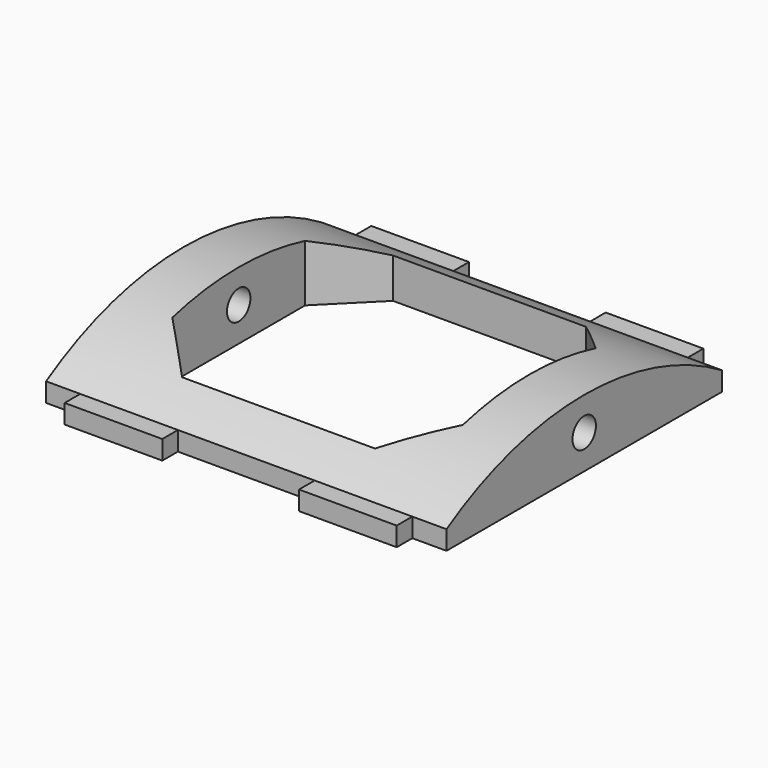
from build123d import *

# Parameters (mm, degrees)
F1_DEPTH = 1.95
F2_R     = 1.5
F3_DEPTH = 41
F4_W     = 29.75
F4_H     = 27
F5_DEPTH = 6.901
F6_SIZE  = 5


with BuildPart() as f1:
    # F0 (on Top) → F1 (new body)
    with BuildSketch(Plane.XY):
        Polygon((-7, 19.625), (-17, 19.625), (-17, 17.625), (-20.5, 17.625), (-20.5, -17.625), (-17, -17.625), (-17, -19.625), (-7, -19.625), (-7, -17.625), (7, -17.625), (7, -19.625), (17, -19.625), (17, -17.625), (20.5, -17.625), (20.5, 17.625), (17, 17.625), (17, 19.625), (7, 19.625), (7, 17.625), (-7, 17.625), align=None)
    extrude(amount=F1_DEPTH)

    # F2 (on face) → F3 (join, through all)
    with BuildSketch(Plane.YZ.offset(20.5)):
        with BuildLine():
            Line((-17.625, 1.95), (17.625, 1.95))
            ThreePointArc((17.625, 1.95), (0, 6.9), (-17.625, 1.95))
        make_face()
        with Locations((0, 3.5)):
            Circle(F2_R, mode=Mode.SUBTRACT)
    extrude(amount=-F3_DEPTH)

    # F4 (on face) → F5 (cut, through all)
    with BuildSketch(Plane(origin=(0, 0, 0), x_dir=(1, 0, 0), z_dir=(0, 0, -1))):
        Rectangle(F4_W, F4_H)
    extrude(amount=-F5_DEPTH, mode=Mode.SUBTRACT)

    # F6
    f6_edges = [f1.edges().sort_by_distance(p)[0] for p in [
        (14.875, -13.5, 2.045861),
        (-14.875, -13.5, 2.045861),
        (14.875, 13.5, 2.045861),
        (-14.875, 13.5, 2.045861),
    ]]
    chamfer(f6_edges, length=F6_SIZE)


solid = f1.part
